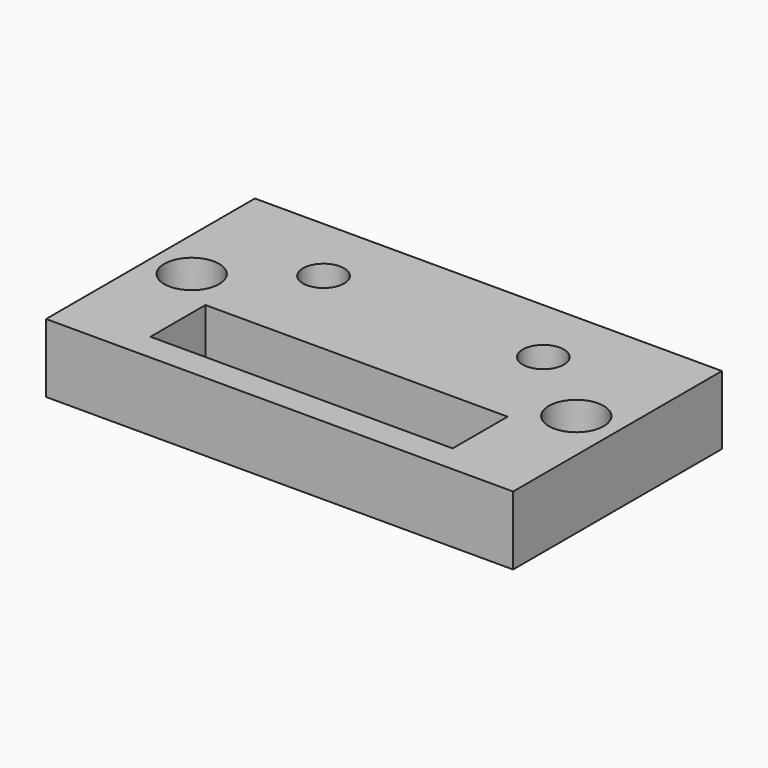
from build123d import *

# Parameters (mm, degrees)
F0_W     = 22
F0_H     = 5
F0_R     = 2
F1_DEPTH = 5
F3_D     = 4
F4_DEPTH = 5
F6_D     = 3


with BuildPart() as f1:
    # F0 (on Top) → F1 (new body)
    with BuildSketch(Plane.XY):
        Polygon((17, 0), (17, 9.5), (-17, 9.5), (-17, 0), (-17, -7.5), (-17, -9.5), (-11, -9.5), (14, -9.5), (17, -9.5), (17, -7.5), align=None)
        with Locations((0, -5)):
            Rectangle(F0_W, F0_H, mode=Mode.SUBTRACT)
        with BuildLine():
            ThreePointArc((-12, 0), (-14, -2), (-16, 0))
            ThreePointArc((-16, 0), (-14, 2), (-12, 0))
        make_face(mode=Mode.SUBTRACT)
        with Locations((14, 0)):
            Circle(F0_R, mode=Mode.SUBTRACT)
    extrude(amount=-F1_DEPTH)

    # F3 (through all)
    with Locations(Plane.XY):
        with Locations((13, 0)):
            Hole(F3_D / 2)

    # F0 (on Top) → F4 (join)
    with BuildSketch(Plane.XY):
        with BuildLine():
            ThreePointArc((-12, 0), (-14, 2), (-16, 0))
            ThreePointArc((-16, 0), (-14, -2), (-12, 0))
        make_face()
        with Locations((14, 0)):
            Circle(F0_R)
        Polygon((17, 0), (17, 9.5), (-17, 9.5), (-17, 0), (-17, -7.5), (-17, -9.5), (-11, -9.5), (14, -9.5), (17, -9.5), (17, -7.5), align=None)
        with Locations((0, -5)):
            Rectangle(F0_W, F0_H, mode=Mode.SUBTRACT)
        with BuildLine():
            ThreePointArc((-12, 0), (-14, -2), (-16, 0))
            ThreePointArc((-16, 0), (-14, 2), (-12, 0))
        make_face(mode=Mode.SUBTRACT)
        with Locations((14, 0)):
            Circle(F0_R, mode=Mode.SUBTRACT)
    extrude(amount=-F4_DEPTH)

    # F6 (through all)
    with Locations(Plane.XY):
        with Locations((-8, 4.5), (8, 4.5)):
            Hole(F6_D / 2)


solid = f1.part
